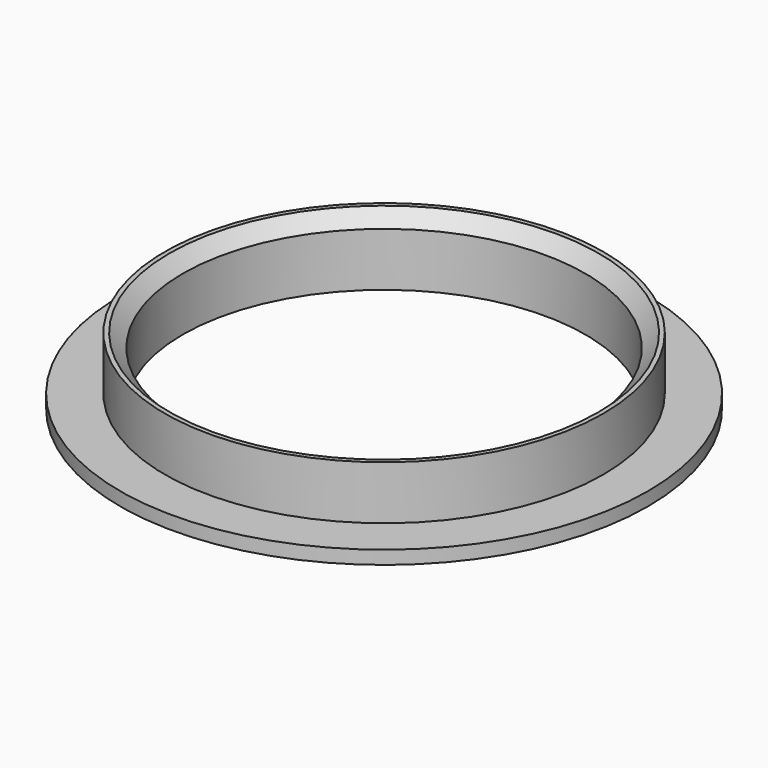
from build123d import *

# Parameters (mm, degrees)
F0_R     = 59
F0_R_2   = 49
F1_DEPTH = 3
F0_R_3   = 45
F2_DEPTH = 15
F3_SIZE  = 3


with BuildPart() as f1:
    # F0 (on Top) → F1 (new body)
    with BuildSketch(Plane.XY):
        with Locations((-35.217796, 30.469857)):
            Circle(F0_R)
        with Locations((-35.217796, 30.469857)):
            Circle(F0_R_2, mode=Mode.SUBTRACT)
    extrude(amount=F1_DEPTH)

    # F0 (on Top) → F2 (join)
    with BuildSketch(Plane.XY):
        with Locations((-35.217796, 30.469857)):
            Circle(F0_R_2)
        with Locations((-35.217796, 30.469857)):
            Circle(F0_R_3, mode=Mode.SUBTRACT)
    extrude(amount=F2_DEPTH)

    # F3
    f3_edges = [f1.edges().sort_by_distance(p)[0] for p in [
        (-80.217796, 30.469857, 15),
    ]]
    chamfer(f3_edges, length=F3_SIZE)


solid = f1.part
